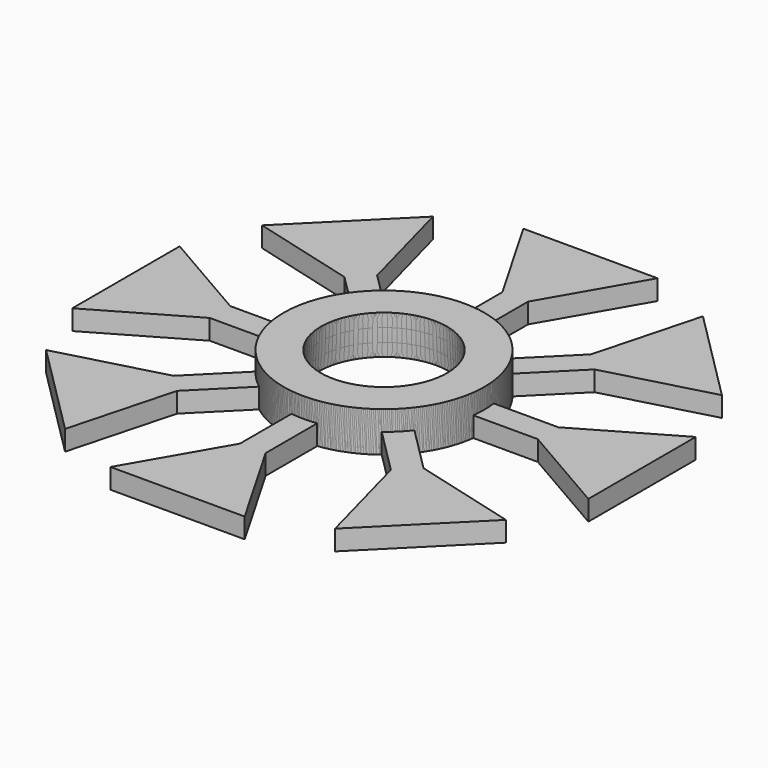
from build123d import *

# Parameters (mm, degrees)
F0_R      = 17.5
F1_DEPTH  = 7
F2_R      = 11
F3_DEPTH  = 7.001
F3_TAPER  = -3
F6_DEPTH  = 3.5
F4_W      = 4.4764312916
F4_H      = 17.2261931002
F9_DEPTH  = 3.5
F10_COUNT = 8


with BuildPart() as f1:
    # F0 (on Top) → F1 (new body)
    with BuildSketch(Plane.XY):
        Circle(F0_R)
    extrude(amount=F1_DEPTH)

    # F2 (on face) → F3 (cut, through all)
    with BuildSketch(Plane.XY.offset(7)):
        Circle(F2_R)
    extrude(amount=-F3_DEPTH, taper=F3_TAPER, mode=Mode.SUBTRACT)

    # F4 (on Top) → F6, piece 2 (join)
    with BuildSketch(Plane.XY):
        with Locations((0, -25.6239380687)):
            Rectangle(F4_W, F4_H)
    extrude(amount=F6_DEPTH)

    # F8 (on Top) → F9 (join)
    with BuildSketch(Plane.XY):
        Polygon((-11.7036785603, -45), (11.7036785603, -45), (0, -24.728634098), align=None)
    extrude(amount=F9_DEPTH)


with BuildPart() as f6:
    # F5 (on Top) → F6 (new body)
    with BuildSketch(Plane.XY):
        Polygon((-3.0067953474, -45.0534820557), (3.0067953474, -45.0534820557), (6.0135906948, -39.845559746), (3.0067953474, -34.6376374364), (-3.0067953474, -34.6376374364), (-6.0135906948, -39.845559746), align=None)
    extrude(amount=F6_DEPTH)


with BuildPart() as f10_1:
    # F10: instance of F1
    add(f1.part.rotate(Axis((0, 0, 0), (0, 0, -1)), 1 * 360 / F10_COUNT))


with BuildPart() as f10_2:
    # F10: instance of F1
    add(f1.part.rotate(Axis((0, 0, 0), (0, 0, -1)), 2 * 360 / F10_COUNT))


with BuildPart() as f10_3:
    # F10: instance of F1
    add(f1.part.rotate(Axis((0, 0, 0), (0, 0, -1)), 3 * 360 / F10_COUNT))


with BuildPart() as f10_4:
    # F10: instance of F1
    add(f1.part.rotate(Axis((0, 0, 0), (0, 0, -1)), 4 * 360 / F10_COUNT))


with BuildPart() as f10_5:
    # F10: instance of F1
    add(f1.part.rotate(Axis((0, 0, 0), (0, 0, -1)), 5 * 360 / F10_COUNT))


with BuildPart() as f10_6:
    # F10: instance of F1
    add(f1.part.rotate(Axis((0, 0, 0), (0, 0, -1)), 6 * 360 / F10_COUNT))


with BuildPart() as f10_7:
    # F10: instance of F1
    add(f1.part.rotate(Axis((0, 0, 0), (0, 0, -1)), 7 * 360 / F10_COUNT))


solid = Compound([f1.part, f10_1.part, f10_2.part, f10_3.part, f10_4.part, f10_5.part, f10_6.part, f10_7.part])
